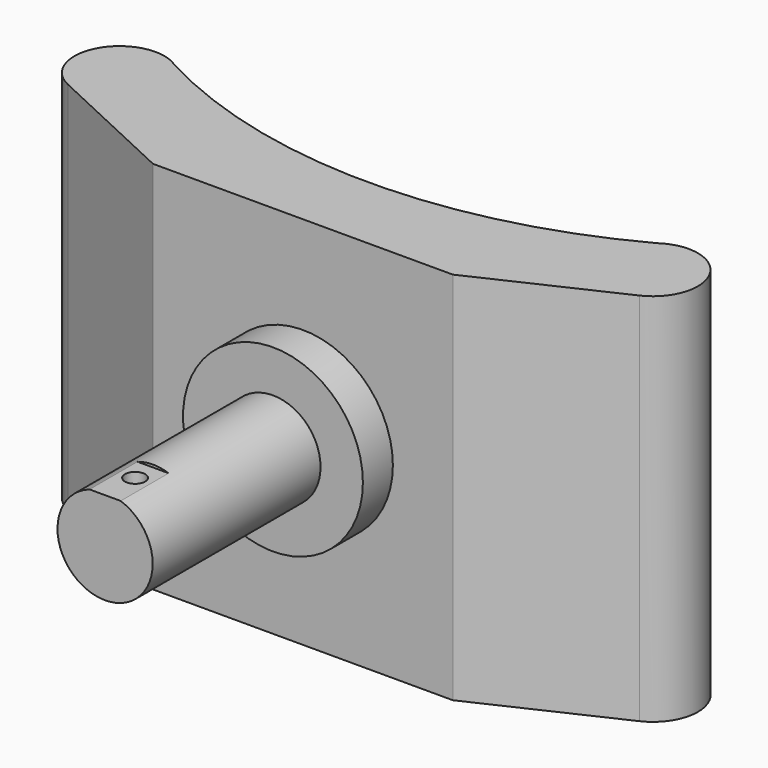
from build123d import *

# Parameters (mm, degrees)
F1_DEPTH = 50
F2_R     = 12
F3_DEPTH = 5
F4_R     = 6.35
F5_DEPTH = 28
F6_W     = 36.939165
F6_H     = 22.77072
F7_DEPTH = 19
F8_R     = 1.35
F9_DEPTH = 31.001


with BuildPart() as f1:
    # F0 (on Top) → F1 (new body)
    with BuildSketch(Plane.XY):
        with BuildLine():
            Line((-38.126156, 8.452365), (-20, 0))
            Line((-20, 0), (20, 0))
            Line((20, 0), (38.126156, 8.452365))
            ThreePointArc((38.126156, 8.452365), (40.804064, 16.859756), (32.20674, 18.845061))
            ThreePointArc((32.20674, 18.845061), (0, 10.761955), (-32.20674, 18.845061))
            ThreePointArc((-32.20674, 18.845061), (-40.804064, 16.859756), (-38.126156, 8.452365))
        make_face()
    extrude(amount=F1_DEPTH)

    # F2 (on face) → F3 (join)
    with BuildSketch(Plane.XZ):
        with Locations((0, 25)):
            Circle(F2_R)
    extrude(amount=F3_DEPTH)

    # F4 (on face) → F5 (join)
    with BuildSketch(Plane.XZ.offset(5)):
        with Locations((0, 25)):
            Circle(F4_R)
    extrude(amount=F5_DEPTH)

    # F6 (on face) → F7 (cut)
    with BuildSketch(Plane.XY.offset(50)):
        with Locations((0.371061, -36.38536)):
            Rectangle(F6_W, F6_H)
    extrude(amount=-F7_DEPTH, mode=Mode.SUBTRACT)

    # F8 (on face) → F9 (cut, through all)
    with BuildSketch(Plane.XY.offset(31)):
        with Locations((0, -28)):
            Circle(F8_R)
    extrude(amount=-F9_DEPTH, mode=Mode.SUBTRACT)


solid = f1.part
